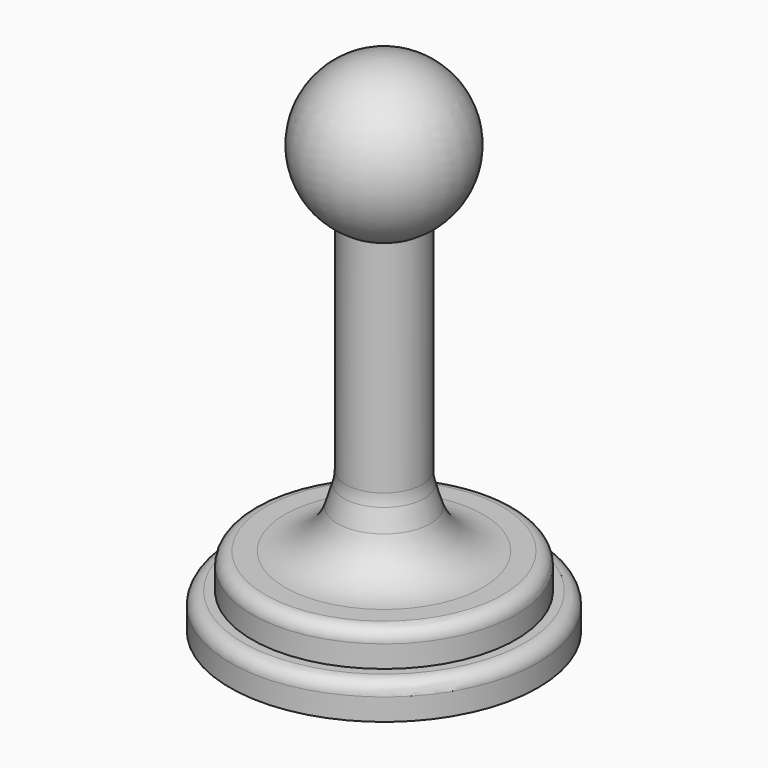
from build123d import *


with BuildPart() as f1:
    # F0 (on Front) → F1 (revolve)
    with BuildSketch(Plane.XZ):
        with BuildLine():
            Line((-17.78, 0), (0, 0))
            Line((0, 0), (0, 58.305166))
            ThreePointArc((0, 58.305166), (-8.587081, 51.716067), (-4.445, 41.7162))
            Line((-4.445, 41.7162), (-4.445, 16.3162))
            ThreePointArc((-4.445, 16.3162), (-4.495728, 15.630002), (-4.646809, 14.958723))
            Line((-4.646809, 14.958723), (-5.354615, 12.630786))
            ThreePointArc((-5.354615, 12.630786), (-7.648949, 9.376417), (-11.43, 8.128))
            Line((-11.43, 8.128), (-13.716, 8.128))
            ThreePointArc((-13.716, 8.128), (-14.793631, 7.681631), (-15.24, 6.604))
            Line((-15.24, 6.604), (-15.24, 4.064))
            Line((-15.24, 4.064), (-16.256, 4.064))
            ThreePointArc((-16.256, 4.064), (-17.333631, 3.617631), (-17.78, 2.54))
            Line((-17.78, 2.54), (-17.78, 0))
        make_face()
    revolve(axis=Axis((0, 0, 31.603862), (0, 0, -1)))


solid = f1.part
